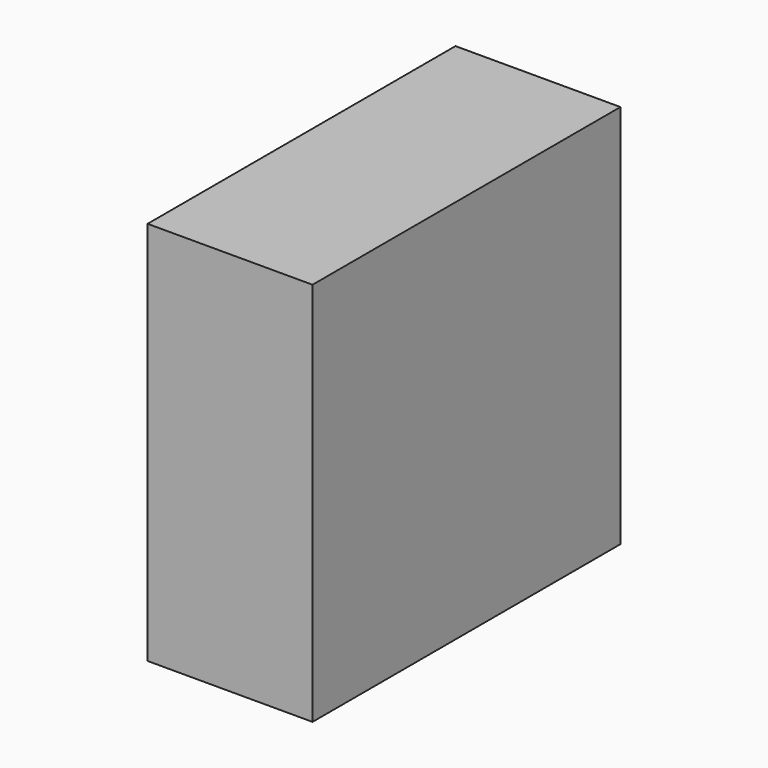
from build123d import *

# Parameters (mm, degrees)
F1_DEPTH = 44.45
F2_DEPTH = 12.7


with BuildPart() as f1:
    # F0 (on Front) → F1 (new body)
    with BuildSketch(Plane.XZ):
        with BuildLine():
            ThreePointArc((-113.546669, -12.471259), (-119.864514, -6.759491), (-114.816669, 0.100445))
            Line((-114.816669, 0.100445), (-114.816669, 2.230411))
            Line((-114.816669, 2.230411), (-113.546669, 2.230411))
            Line((-113.546669, 2.230411), (-113.546669, 16.103741))
            Line((-113.546669, 16.103741), (-123.071669, 16.103741))
            Line((-123.071669, 16.103741), (-123.071669, -28.346259))
            Line((-123.071669, -28.346259), (-113.546669, -28.346259))
            Line((-113.546669, -28.346259), (-113.546669, -12.471259))
        make_face()
        with BuildLine():
            ThreePointArc((-112.276669, 0.100445), (-107.228825, -6.759491), (-113.546669, -12.471259))
            Line((-113.546669, -12.471259), (-113.546669, -28.346259))
            Line((-113.546669, -28.346259), (-104.021669, -28.346259))
            Line((-104.021669, -28.346259), (-104.021669, 16.103741))
            Line((-104.021669, 16.103741), (-113.546669, 16.103741))
            Line((-113.546669, 16.103741), (-113.546669, 2.230411))
            Line((-113.546669, 2.230411), (-112.276669, 2.230411))
            Line((-112.276669, 2.230411), (-112.276669, 0.100445))
        make_face()
        with BuildLine():
            Line((-113.546669, -6.121259), (-113.546669, -12.471259))
            ThreePointArc((-113.546669, -12.471259), (-107.228825, -6.759491), (-112.276669, 0.100445))
            Line((-112.276669, 0.100445), (-112.276669, 2.230411))
            Line((-112.276669, 2.230411), (-113.546669, 2.230411))
            Line((-113.546669, 2.230411), (-113.546669, -6.121259))
        make_face()
        with BuildLine():
            Line((-114.816669, 2.230411), (-114.816669, 0.100445))
            ThreePointArc((-114.816669, 0.100445), (-119.864514, -6.759491), (-113.546669, -12.471259))
            Line((-113.546669, -12.471259), (-113.546669, -6.121259))
            Line((-113.546669, -6.121259), (-113.546669, 2.230411))
            Line((-113.546669, 2.230411), (-114.816669, 2.230411))
        make_face()
    extrude(amount=F1_DEPTH)

    # F0 (on Front) → F2 (cut)
    with BuildSketch(Plane.XZ):
        with BuildLine():
            Line((-113.546669, -6.121259), (-113.546669, -12.471259))
            ThreePointArc((-113.546669, -12.471259), (-107.228825, -6.759491), (-112.276669, 0.100445))
            Line((-112.276669, 0.100445), (-112.276669, 2.230411))
            Line((-112.276669, 2.230411), (-113.546669, 2.230411))
            Line((-113.546669, 2.230411), (-113.546669, -6.121259))
        make_face()
        with BuildLine():
            Line((-114.816669, 2.230411), (-114.816669, 0.100445))
            ThreePointArc((-114.816669, 0.100445), (-119.864514, -6.759491), (-113.546669, -12.471259))
            Line((-113.546669, -12.471259), (-113.546669, -6.121259))
            Line((-113.546669, -6.121259), (-113.546669, 2.230411))
            Line((-113.546669, 2.230411), (-114.816669, 2.230411))
        make_face()
    extrude(amount=F2_DEPTH, mode=Mode.SUBTRACT)


solid = f1.part
